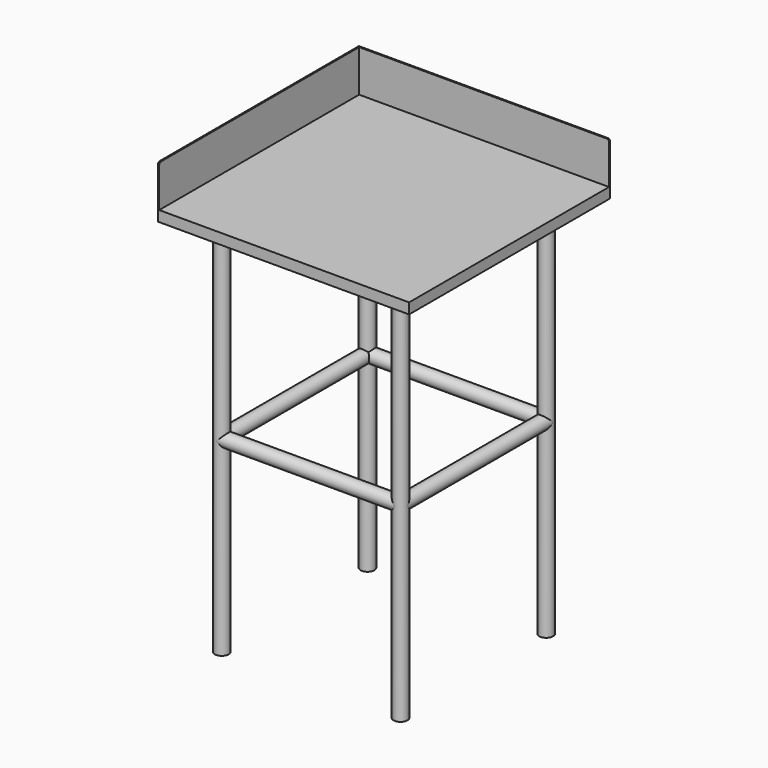
from build123d import *

# Parameters (mm, degrees)
F0_W          = 600
F0_H          = 600
F1_DEPTH      = 25.4
F2_T          = -2.54
F3_R          = 16.5
F4_DEPTH      = 910
F4_DEPTH_BACK = 22.86
F6_DEPTH      = 100
F7_R          = 5.08
F8_R          = 5.08
F10_R         = 16.5
F11_DEPTH     = 433.324
F13_R         = 16.5
F14_DEPTH     = 424.434
F16_R         = 16.5
F17_DEPTH     = 433.07
F19_R         = 16.5
F20_DEPTH     = 425.196


with BuildPart() as f1:
    # F0 (on Top) → F1 (new body)
    with BuildSketch(Plane.XY):
        Rectangle(F0_W, F0_H)
    extrude(amount=F1_DEPTH)

    # F2
    f2_openings = [f1.faces().sort_by_distance(p)[0] for p in [
        (0, 0, 0),
    ]]
    offset(amount=F2_T, openings=f2_openings)

    # F3 (on face) → F4 (join, two sides)
    with BuildSketch(Plane(origin=(0, 0, 0), x_dir=(1, 0, 0), z_dir=(0, 0, -1))) as f4_sk:
        with Locations((213.5, -217.5)):
            Circle(F3_R)
        with Locations((-213.5, -217.5)):
            Circle(F3_R)
        with Locations((213.5, 217.5)):
            Circle(F3_R)
        with Locations((-213.5, 217.5)):
            Circle(F3_R)
    extrude(amount=F4_DEPTH)
    extrude(f4_sk.sketch, amount=-F4_DEPTH_BACK)

    # F5 (on face) → F6 (join)
    with BuildSketch(Plane.XY.offset(25.4)):
        Polygon((-300, 300), (-300, -300), (-297, -300), (-297, 297), (300, 297), (300, 300), (-297, 300), align=None)
    extrude(amount=F6_DEPTH)

    # F7
    f7_edges = [f1.edges().sort_by_distance(p)[0] for p in [
        (300, 298.5, 125.4),
    ]]
    fillet(f7_edges, radius=F7_R)

    # F8
    f8_edges = [f1.edges().sort_by_distance(p)[0] for p in [
        (-298.5, -300, 125.4),
    ]]
    fillet(f8_edges, radius=F8_R)

    # F10 (on face) → F11 (join)
    with BuildSketch(Plane(origin=(0, 217.5, 0), x_dir=(-1, 0, 0), z_dir=(0, 1, 0))):
        with Locations((213.48982, -460)):
            Circle(F10_R)
    extrude(amount=-F11_DEPTH)

    # F13 (on face) → F14 (join)
    with BuildSketch(Plane(origin=(-213.5, 0, 0), x_dir=(0, -1, 0), z_dir=(-1, 0, 0))):
        with Locations((217.474729, -460)):
            Circle(F13_R)
    extrude(amount=-F14_DEPTH)

    # F16 (on face) → F17 (join)
    with BuildSketch(Plane(origin=(0, -217.5, 0), x_dir=(-1, 0, 0), z_dir=(0, 1, 0))):
        with Locations((-213.500246, -460)):
            Circle(F16_R)
    extrude(amount=F17_DEPTH)

    # F19 (on face) → F20 (join)
    with BuildSketch(Plane(origin=(213.5, 0, 0), x_dir=(0, -1, 0), z_dir=(-1, 0, 0))):
        with Locations((-217.88691, -460)):
            Circle(F19_R)
    extrude(amount=F20_DEPTH)


solid = f1.part
